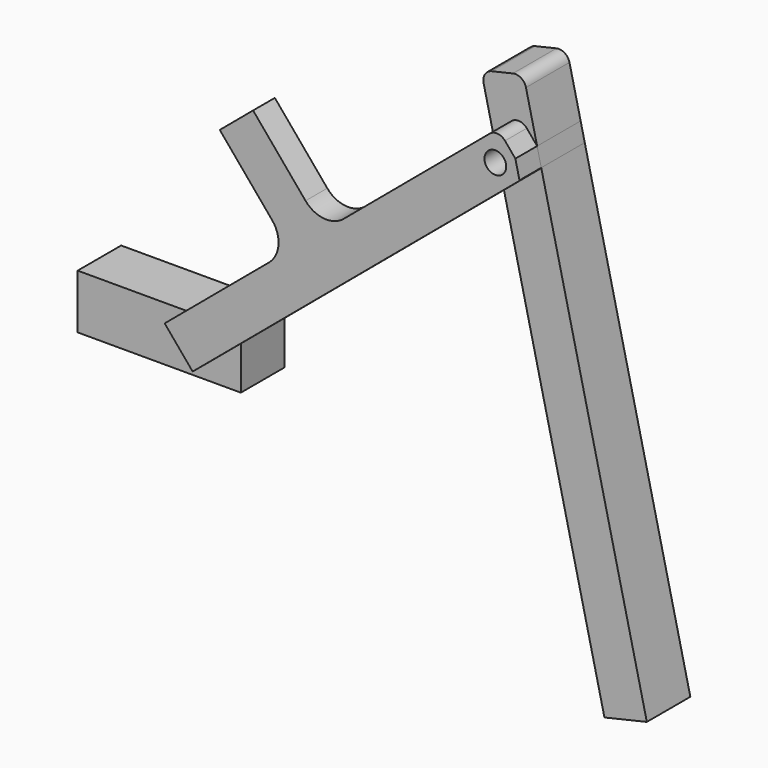
from build123d import *

# Parameters (mm, degrees)
F1_R     = 10
F2_DEPTH = 50
F3_DEPTH = 25


with BuildPart() as f2:
    # F1 (on offset) → F2 (new body)
    with BuildSketch(Plane.XZ.offset(25)):
        Polygon((-100, 0), (-100, -50), (50, -50), (50, -10.26131), (25.711504, -30.641778), (0, 0), align=None)
        Polygon((25.711504, -30.641778), (50, -10.26131), (50, 0), (0, 0), align=None)
        with BuildLine():
            Line((324.468837, 220.04539), (291.859125, 192.682593))
            Line((291.859125, 192.682593), (384.249957, -204.134733))
            Line((384.249957, -204.134733), (423.207943, -195.064159))
            Line((423.207943, -195.064159), (326.140191, 221.840473))
            ThreePointArc((326.140191, 221.840473), (325.359758, 220.891496), (324.468837, 220.04539))
        make_face()
        with BuildLine():
            Line((281.688611, 236.364809), (291.859125, 192.682593))
            Line((291.859125, 192.682593), (324.468837, 220.04539))
            ThreePointArc((324.468837, 220.04539), (325.359758, 220.891496), (326.140191, 221.840473))
            Line((326.140191, 221.840473), (322.347271, 238.131013))
            Line((322.347271, 238.131013), (312.845653, 249.454599))
            ThreePointArc((312.845653, 249.454599), (306.056766, 252.98867), (298.757333, 250.687168))
            Line((298.757333, 250.687168), (281.688611, 236.364809))
        make_face()
        with Locations((303.952641, 228.938403)):
            Circle(F1_R, mode=Mode.SUBTRACT)
        with BuildLine():
            Line((273.13543, 273.100599), (281.688611, 236.364809))
            Line((281.688611, 236.364809), (298.757333, 250.687168))
            ThreePointArc((298.757333, 250.687168), (306.056766, 252.98867), (312.845653, 249.454599))
            Line((312.845653, 249.454599), (322.347271, 238.131013))
            Line((322.347271, 238.131013), (312.093417, 282.171172))
            ThreePointArc((312.093417, 282.171172), (307.637318, 288.393859), (300.086277, 289.643026))
            Line((300.086277, 289.643026), (280.607284, 285.107739))
            ThreePointArc((280.607284, 285.107739), (274.384597, 280.65164), (273.13543, 273.100599))
        make_face()
    extrude(amount=-F2_DEPTH)


with BuildPart() as f3:
    # F1 (on offset) → F3 (new body)
    with BuildSketch(Plane.XZ.offset(25)):
        with BuildLine():
            Line((50, 0), (50, -10.26131))
            Line((50, -10.26131), (291.859125, 192.682593))
            Line((291.859125, 192.682593), (281.688611, 236.364809))
            Line((281.688611, 236.364809), (164.699555, 138.199336))
            ThreePointArc((164.699555, 138.199336), (146.450971, 132.44558), (129.478754, 141.280757))
            Line((129.478754, 141.280757), (81.269683, 198.73409))
            Line((81.269683, 198.73409), (50.627905, 173.022586))
            Line((50.627905, 173.022586), (98.836976, 115.569253))
            ThreePointArc((98.836976, 115.569253), (104.590733, 97.320669), (95.755555, 80.348451))
            Line((95.755555, 80.348451), (0, 0))
            Line((0, 0), (50, 0))
        make_face()
        with BuildLine():
            Line((281.688611, 236.364809), (291.859125, 192.682593))
            Line((291.859125, 192.682593), (324.468837, 220.04539))
            ThreePointArc((324.468837, 220.04539), (325.359758, 220.891496), (326.140191, 221.840473))
            Line((326.140191, 221.840473), (322.347271, 238.131013))
            Line((322.347271, 238.131013), (312.845653, 249.454599))
            ThreePointArc((312.845653, 249.454599), (306.056766, 252.98867), (298.757333, 250.687168))
            Line((298.757333, 250.687168), (281.688611, 236.364809))
        make_face()
        with Locations((303.952641, 228.938403)):
            Circle(F1_R, mode=Mode.SUBTRACT)
        Polygon((25.711504, -30.641778), (50, -10.26131), (50, 0), (0, 0), align=None)
    extrude(amount=F3_DEPTH)


solid = Compound([f2.part, f3.part])
